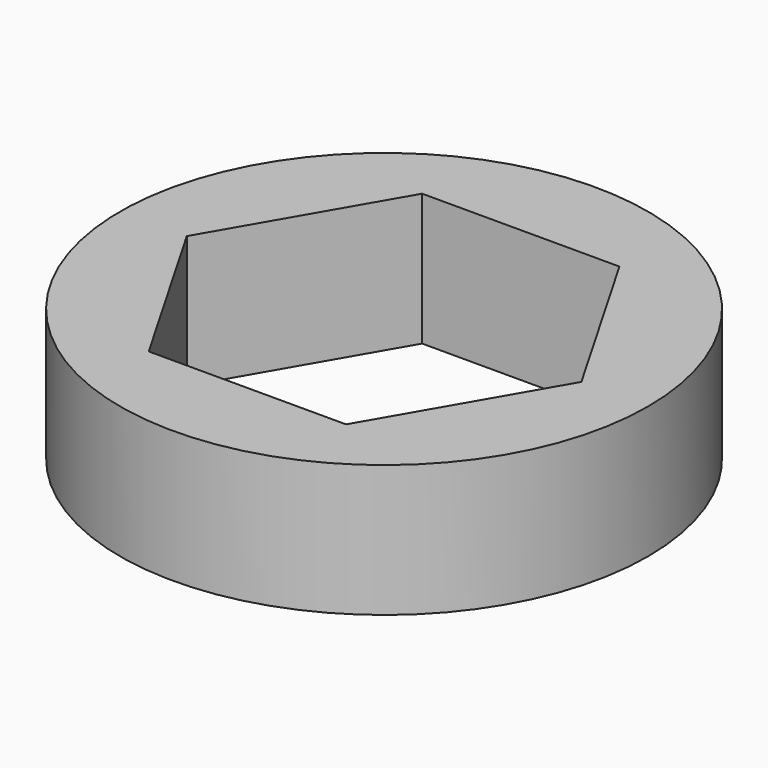
from build123d import *

# Parameters (mm, degrees)
F0_R     = 50
F1_DEPTH = 25
F3_DEPTH = 25.001


with BuildPart() as f1:
    # F0 (on Top) → F1 (new body)
    with BuildSketch(Plane.XY):
        Circle(F0_R)
    extrude(amount=F1_DEPTH)

    # F2 (on face) → F3 (cut, through all)
    with BuildSketch(Plane.XY.offset(25)):
        Polygon((18.68782, -32.368254), (37.37564, 0), (18.68782, 32.368254), (-18.68782, 32.368254), (-37.37564, 0), (-18.68782, -32.368254), align=None)
    extrude(amount=-F3_DEPTH, mode=Mode.SUBTRACT)


solid = f1.part
